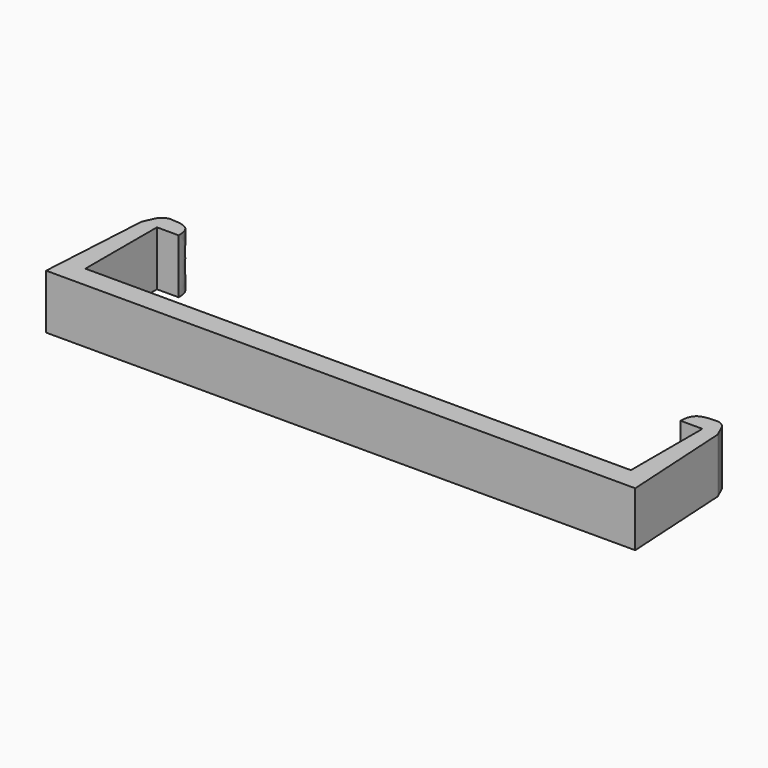
from build123d import *

# Parameters (mm, degrees)
F0_W     = 25
F0_H     = 2
F1_DEPTH = 5
F2_R     = 1
F3_R     = 1


with BuildPart() as f1:
    # F0 (on Top) → F1 (new body)
    with BuildSketch(Plane.XY):
        with BuildLine():
            Line((-26.404906, 10.2), (-25, 10.2))
            Line((-25, 10.2), (-23, 10.2))
            add(Edge.make_bspline(
                [(-23, 10.2), (-23.017775, 11.829905), (-23.894977, 11.75835), (-25.660651, 11.815999)],
                knots=[0, 0, 0, 0, 3.112959, 3.112959, 3.112959, 3.112959], degree=3))
            Line((-25.660651, 11.815999), (-26.404906, 10.2))
        make_face()
        Polygon((-27, 0), (-25, 0), (-25, 2), (-25, 10.2), (-26.404906, 10.2), align=None)
        with Locations((-12.5, 1)):
            Rectangle(F0_W, F0_H)
        with Locations((12.5, 1)):
            Rectangle(F0_W, F0_H)
        Polygon((25, 2), (25, 0), (27, 0), (26.404906, 10.2), (25, 10.2), align=None)
        with BuildLine():
            Line((23, 10.2), (25, 10.2))
            Line((25, 10.2), (26.404906, 10.2))
            Line((26.404906, 10.2), (25.660651, 11.815999))
            add(Edge.make_bspline(
                [(23, 10.2), (23.017775, 11.829905), (23.894977, 11.75835), (25.660651, 11.815999)],
                knots=[0, 0, 0, 0, 3.112959, 3.112959, 3.112959, 3.112959], degree=3))
        make_face()
    extrude(amount=F1_DEPTH)

    # F2
    f2_edges = [f1.edges().sort_by_distance(p)[0] for p in [
        (25.660651, 11.815999, 2.5),
    ]]
    fillet(f2_edges, radius=F2_R)

    # F3
    f3_edges = [f1.edges().sort_by_distance(p)[0] for p in [
        (-25.660651, 11.815999, 2.5),
    ]]
    fillet(f3_edges, radius=F3_R)


solid = f1.part
